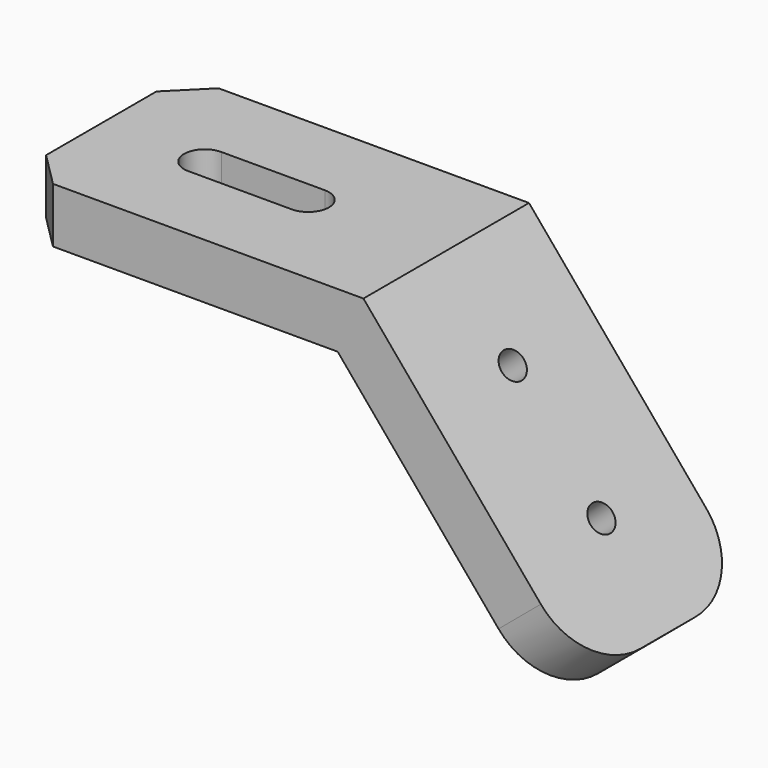
from build123d import *

# Parameters (mm, degrees)
F1_DEPTH = 15
F3_DEPTH = 43.4455230334
F5_D     = 4
F6_R     = 10
F7_SIZE  = 5


with BuildPart() as f1:
    # F0 (on Front) → F1 (new body, symmetric)
    with BuildSketch(Plane.XZ):
        Polygon((0, 0), (-50, 0), (-50, -8), (-3.7304612652, -8), (26.0110249394, -43.4445230334), (32.1393804843, -38.3022221559), align=None)
    extrude(amount=F1_DEPTH, both=True)

    # F2 (on face) → F3 (cut, through all)
    with BuildSketch(Plane.XY):
        with BuildLine():
            ThreePointArc((-35, 3), (-38, 0), (-35, -3))
            Line((-35, -3), (-20, -3))
            ThreePointArc((-20, -3), (-17, 0), (-20, 3))
            Line((-20, 3), (-35, 3))
        make_face()
    extrude(amount=-F3_DEPTH, mode=Mode.SUBTRACT)

    # F5 (through all)
    with Locations(Plane(origin=(0, 0, 0), x_dir=(0, 1, 0), z_dir=(0.7660444431, 0, 0.6427876097))):
        with Locations((0, -15), (0, -35)):
            Hole(F5_D / 2)

    # F6
    f6_edges = [f1.edges().sort_by_distance(p)[0] for p in [
        (29.075203, 15, -40.873373),
        (29.075203, -15, -40.873373),
    ]]
    fillet(f6_edges, radius=F6_R)

    # F7
    f7_edges = [f1.edges().sort_by_distance(p)[0] for p in [
        (-50, -15, -4),
        (-50, 15, -4),
    ]]
    chamfer(f7_edges, length=F7_SIZE)


solid = f1.part
